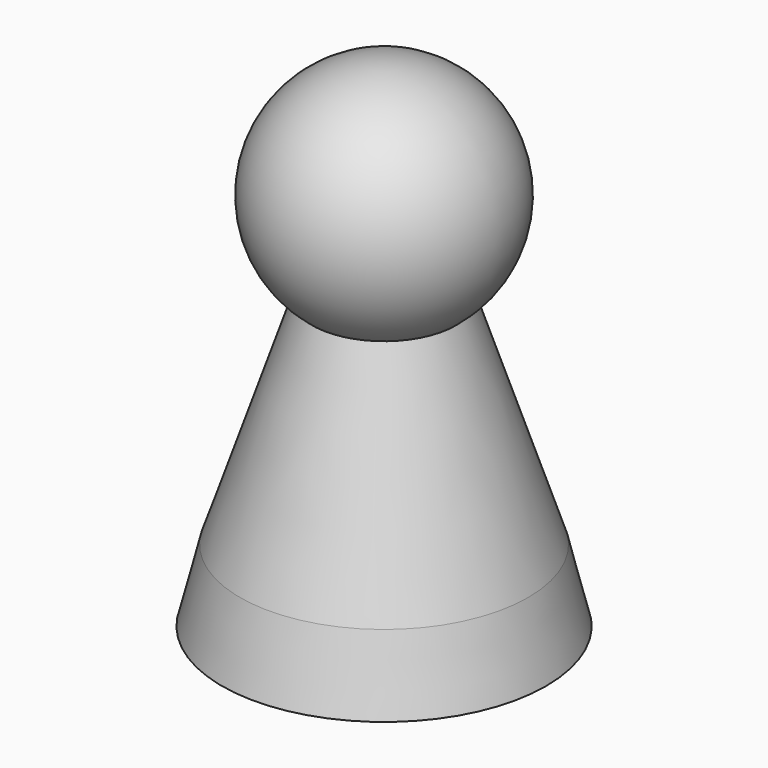
from build123d import *

# Parameters (mm, degrees)
F2_R      = 20
F0_R      = 22.5
F4_T      = -1
F5_R      = 20
F7_R      = 10
F9_R      = 10.2
F10_DEPTH = 25


with BuildPart() as f3:
    # F2 (on offset) → F3 section 0
    with BuildSketch(Plane.XY.offset(10)):
        Circle(F2_R)
    # F0 (on Top) → F3 section 1
    with BuildSketch(Plane.XY):
        Circle(F0_R)
    loft()

    # F4
    f4_openings = [f3.faces().sort_by_distance(p)[0] for p in [
        (0, 0, 0),
    ]]
    offset(amount=F4_T, openings=f4_openings, kind=Kind.INTERSECTION)

    # F5 (on face) → F8 section 0
    with BuildSketch(Plane.XY.offset(10)):
        Circle(F5_R)
    # F7 (on offset) → F8 section 1
    with BuildSketch(Plane.XY.offset(40)):
        Circle(F7_R)
    loft()

    # F9 (on face) → F10 (cut)
    with BuildSketch(Plane(origin=(0, 0, 9), x_dir=(1, 0, 0), z_dir=(0, 0, -1))):
        Circle(F9_R)
    extrude(amount=-F10_DEPTH, mode=Mode.SUBTRACT)

    # F11 (on Front) → F12 (revolve)
    with BuildSketch(Plane.XZ):
        with BuildLine():
            Line((0, 68.8017484976), (0, 40))
            Line((0, 40), (10, 40))
            ThreePointArc((10, 40), (15.2441850924, 57.9576670224), (0, 68.8017484976))
        make_face()
    revolve(axis=Axis((0, 0, 56.8208959699), (0, 0, -1)))


solid = f3.part
